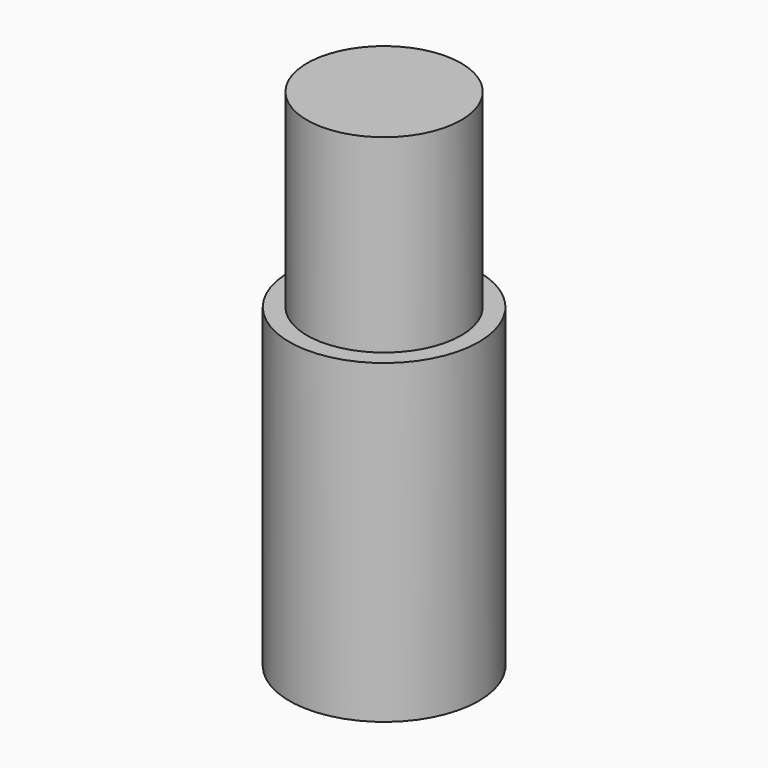
from build123d import *

# Parameters (mm, degrees)
F0_R     = 3
F1_DEPTH = 10
F2_R     = 2.44
F3_DEPTH = 6
F4_R     = 2.7
F5_DEPTH = 5


with BuildPart() as f1:
    # F0 (on Top) → F1 (new body)
    with BuildSketch(Plane.XY):
        with Locations((-39.492015, 19.486886)):
            Circle(F0_R)
    extrude(amount=F1_DEPTH)

    # F2 (on face) → F3 (join)
    with BuildSketch(Plane.XY.offset(10)):
        with Locations((-39.492015, 19.486886)):
            Circle(F2_R)
    extrude(amount=F3_DEPTH)

    # F4 (on face) → F5 (cut)
    with BuildSketch(Plane(origin=(0, 0, 0), x_dir=(1, 0, 0), z_dir=(0, 0, -1))):
        with Locations((-39.492015, -19.486886)):
            Circle(F4_R)
    extrude(amount=-F5_DEPTH, mode=Mode.SUBTRACT)


solid = f1.part
